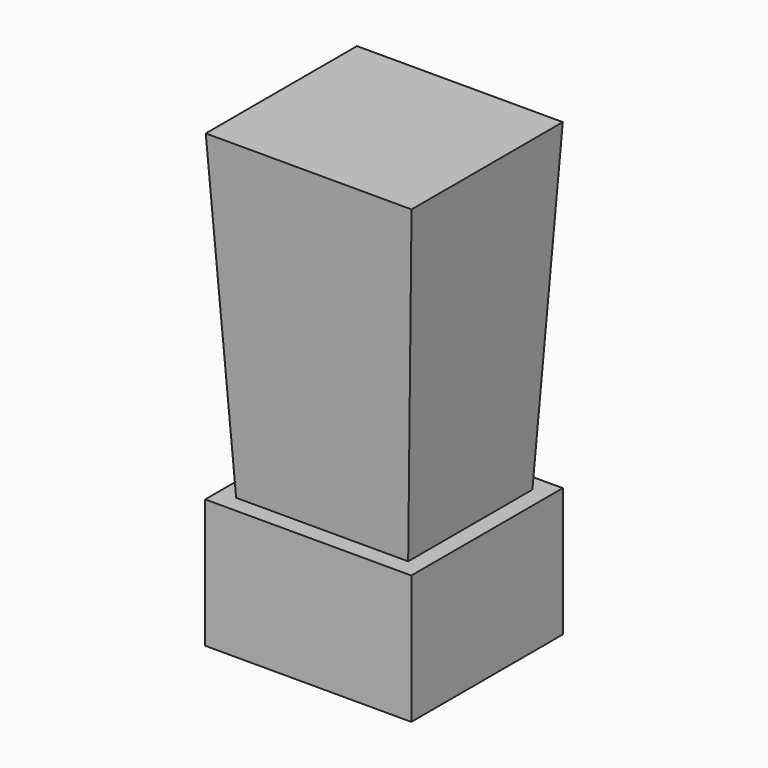
from build123d import *

# Parameters (mm, degrees)
F0_W     = 31.242
F0_H     = 27.94
F1_DEPTH = 88.9
F1_TAPER = -3
F2_W     = 40.6205877662
F2_H     = 37.3129299842
F3_DEPTH = 25.4


with BuildPart() as f1:
    # F0 (on Top) → F1 (new body)
    with BuildSketch(Plane.XY):
        with Locations((15.621, 13.97)):
            Rectangle(F0_W, F0_H)
    extrude(amount=F1_DEPTH, taper=F1_TAPER)

    # F2 (on face) → F3 (join)
    with BuildSketch(Plane(origin=(0, 0, 0), x_dir=(1, 0, 0), z_dir=(0, 0, -1))):
        with Locations((15.5892632902, -13.9424998779)):
            Rectangle(F2_W, F2_H)
    extrude(amount=-F3_DEPTH)


solid = f1.part
